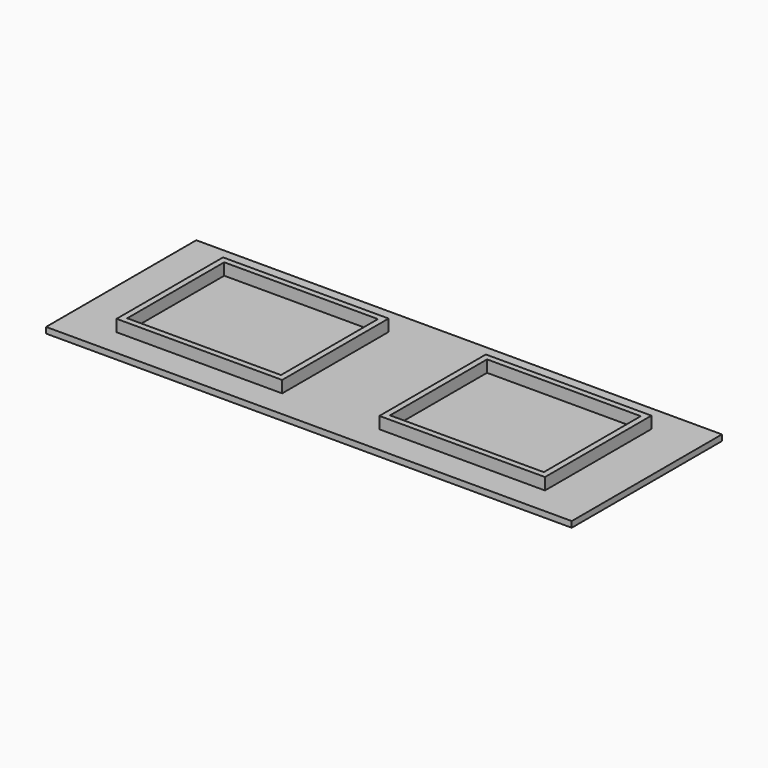
from build123d import *

# Parameters (mm, degrees)
F0_W     = 56
F0_H     = 45
F0_W_2   = 52
F0_H_2   = 41
F1_DEPTH = 6
F0_W_3   = 88.9
F0_H_3   = 63.5
F2_DEPTH = 2
F3_DEPTH = 2


with BuildPart() as f1:
    # F0 (on Top) → F1 (new body)
    with BuildSketch(Plane.XY):
        with Locations((44.45, 31.75)):
            Rectangle(F0_W, F0_H)
        with Locations((44.45, 31.75)):
            Rectangle(F0_W_2, F0_H_2, mode=Mode.SUBTRACT)
    extrude(amount=F1_DEPTH)

    # F0 (on Top) → F2 (join)
    with BuildSketch(Plane.XY):
        with Locations((44.45, 31.75)):
            Rectangle(F0_W_3, F0_H_3)
        with Locations((44.45, 31.75)):
            Rectangle(F0_W, F0_H, mode=Mode.SUBTRACT)
    extrude(amount=F2_DEPTH)

    # F0 (on Top) → F3 (join)
    with BuildSketch(Plane.XY):
        with Locations((44.45, 31.75)):
            Rectangle(F0_W_2, F0_H_2)
    extrude(amount=F3_DEPTH)

    # F4: F1 across plane


with BuildPart() as f1_1:
    add(f1.part)
    add(f1.part.mirror(Plane.YZ))


solid = f1_1.part
